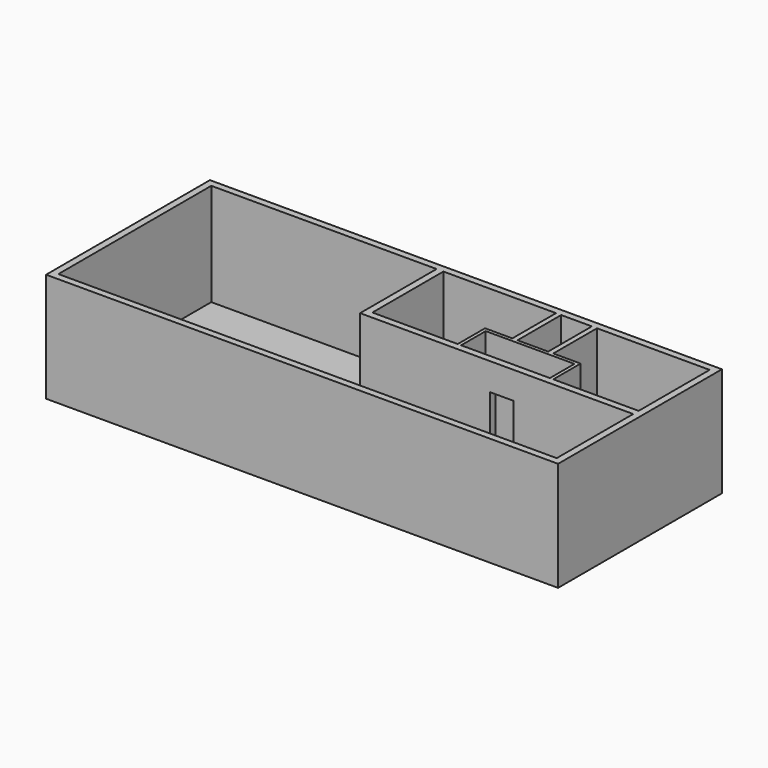
from build123d import *

# Parameters (mm, degrees)
F0_W      = 150
F0_H      = 60
F1_DEPTH  = 2
F2_W      = 2
F2_H      = 60
F3_DEPTH  = 30
F4_W      = 148
F4_H      = 2
F5_DEPTH  = 30
F6_W      = 2
F6_H      = 58
F7_DEPTH  = 30
F8_W      = 146
F8_H      = 2
F9_DEPTH  = 30
F11_W     = 2
F11_H     = 28
F12_DEPTH = 30
F13_W     = 80
F13_H     = 2
F14_DEPTH = 30
F16_W     = 1
F16_H     = 10
F17_DEPTH = 30
F18_W     = 28
F18_H     = 1
F19_DEPTH = 30
F20_W     = 1
F20_H     = 10
F21_DEPTH = 30
F22_W     = 1.5
F22_H     = 16
F23_DEPTH = 30
F24_W     = 1.5
F24_H     = 16
F25_DEPTH = 30
F26_W     = 7
F26_H     = 22
F27_DEPTH = 3
F28_W     = 6
F28_H     = 22
F29_DEPTH = 2


with BuildPart() as f1:
    # F0 (on Top) → F1 (new body)
    with BuildSketch(Plane.XY):
        with Locations((17.442032, 12.783553)):
            Rectangle(F0_W, F0_H)
    extrude(amount=F1_DEPTH)

    # F2 (on face) → F3 (join)
    with BuildSketch(Plane.XY.offset(2)):
        with Locations((-56.557968, 12.783553)):
            Rectangle(F2_W, F2_H)
    extrude(amount=F3_DEPTH)

    # F4 (on face) → F5 (join)
    with BuildSketch(Plane.XY.offset(2)):
        with Locations((18.442032, 41.783553)):
            Rectangle(F4_W, F4_H)
    extrude(amount=F5_DEPTH)

    # F6 (on face) → F7 (join)
    with BuildSketch(Plane.XY.offset(2)):
        with Locations((91.442032, 11.783553)):
            Rectangle(F6_W, F6_H)
    extrude(amount=F7_DEPTH)

    # F8 (on face) → F9 (join)
    with BuildSketch(Plane.XY.offset(2)):
        with Locations((17.442032, -16.216447)):
            Rectangle(F8_W, F8_H)
    extrude(amount=F9_DEPTH)

    # F11 (on face) → F12 (join)
    with BuildSketch(Plane.XY.offset(2)):
        with Locations((11.442032, 26.783553)):
            Rectangle(F11_W, F11_H)
    extrude(amount=F12_DEPTH)

    # F13 (on face) → F14 (join)
    with BuildSketch(Plane.XY.offset(2)):
        with Locations((50.442032, 13.783553)):
            Rectangle(F13_W, F13_H)
    extrude(amount=F14_DEPTH)

    # F16 (on face) → F17 (join)
    with BuildSketch(Plane.XY.offset(2)):
        with Locations((37.942032, 19.783553)):
            Rectangle(F16_W, F16_H)
    extrude(amount=F17_DEPTH)

    # F18 (on face) → F19 (join)
    with BuildSketch(Plane.XY.offset(2)):
        with Locations((51.442032, 24.283553)):
            Rectangle(F18_W, F18_H)
    extrude(amount=F19_DEPTH)

    # F20 (on face) → F21 (join)
    with BuildSketch(Plane.XY.offset(2)):
        with Locations((64.942032, 19.783553)):
            Rectangle(F20_W, F20_H)
    extrude(amount=F21_DEPTH)

    # F22 (on face) → F23 (join)
    with BuildSketch(Plane.XY.offset(2)):
        with Locations((46.192032, 32.783553)):
            Rectangle(F22_W, F22_H)
    extrude(amount=F23_DEPTH)

    # F24 (on face) → F25 (join)
    with BuildSketch(Plane.XY.offset(2)):
        with Locations((56.692032, 32.783553)):
            Rectangle(F24_W, F24_H)
    extrude(amount=F25_DEPTH)

    # F26 (on face) → F27 (cut)
    with BuildSketch(Plane.XZ.offset(-12.783553)):
        with Locations((51.942032, 13)):
            Rectangle(F26_W, F26_H)
    extrude(amount=-F27_DEPTH, mode=Mode.SUBTRACT)

    # F28 (on face) → F29 (cut)
    with BuildSketch(Plane.XZ.offset(-23.783553)):
        with Locations((52.442032, 13)):
            Rectangle(F28_W, F28_H)
    extrude(amount=-F29_DEPTH, mode=Mode.SUBTRACT)


solid = f1.part
